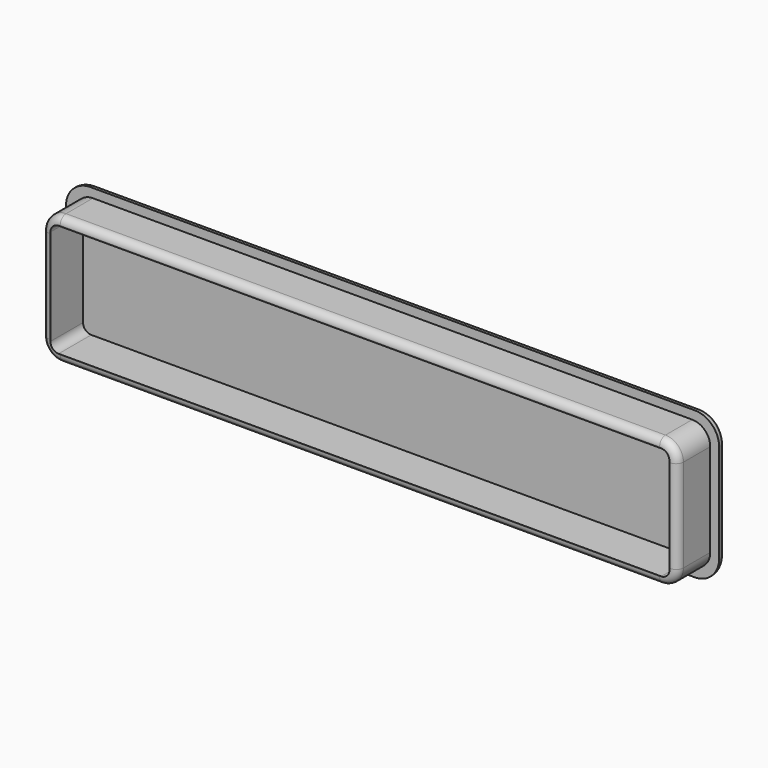
from build123d import *

# Parameters (mm, degrees)
SKETCH004_W             = 80
SKETCH004_H             = 18
PAD001_DEPTH            = 1
FILLET001_R             = 3
PAD002_DEPTH            = 5
POCKET001_DEPTH         = 5
FILLET009_R             = 0.9
FILLET010_R             = 0.9
BODY001_PLACEMENT_ANGLE = 90


with BuildPart() as part:
    # Sketch004 → Pad001 (new body)
    with BuildSketch(Plane.YZ):
        with Locations((8.97, 0.91)):
            Rectangle(SKETCH004_W, SKETCH004_H)
    extrude(amount=PAD001_DEPTH)

    # Fillet001
    fillet001_edges = [part.edges().sort_by_distance(p)[0] for p in [
        (0.5, -31.03, -8.09),
        (0.5, -31.03, 9.91),
        (0.5, 48.97, 9.91),
        (0.5, 48.97, -8.09),
    ]]
    fillet(fillet001_edges, radius=FILLET001_R)

    # Sketch005 (on Face2 of Fillet001) → Pad002 (join)
    with BuildSketch(Plane(origin=(0, 0, 0), x_dir=(0, 1, 0), z_dir=(-1, 0, 0))):
        with BuildLine():
            Line((-27.73, 6.99), (45.67, 6.99))
            ThreePointArc((47.87, 4.79), (47.225635, 6.345635), (45.67, 6.99))
            Line((47.87, 4.79), (47.87, -6.61))
            ThreePointArc((45.67, -8.81), (47.225635, -8.165635), (47.87, -6.61))
            Line((45.67, -8.81), (-27.73, -8.81))
            ThreePointArc((-29.93, -6.61), (-29.285635, -8.165635), (-27.73, -8.81))
            Line((-29.93, -6.61), (-29.93, 4.79))
            ThreePointArc((-27.73, 6.99), (-29.285635, 6.345635), (-29.93, 4.79))
        make_face()
    extrude(amount=PAD002_DEPTH)

    # Sketch006 (on Face19 of Pad002) → Pocket001 (cut)
    with BuildSketch(Plane(origin=(-5, 0, 0), x_dir=(0, 1, 0), z_dir=(-1, 0, 0))):
        with BuildLine():
            Line((-27.93, 5.99), (45.87, 5.99))
            ThreePointArc((46.87, 4.99), (46.577107, 5.697107), (45.87, 5.99))
            Line((46.87, 4.99), (46.87, -6.81))
            ThreePointArc((45.87, -7.81), (46.577107, -7.517107), (46.87, -6.81))
            Line((45.87, -7.81), (-27.93, -7.81))
            ThreePointArc((-28.93, -6.81), (-28.637107, -7.517107), (-27.93, -7.81))
            Line((-28.93, -6.81), (-28.93, 4.99))
            ThreePointArc((-27.93, 5.99), (-28.637107, 5.697107), (-28.93, 4.99))
        make_face()
    extrude(amount=-POCKET001_DEPTH, mode=Mode.SUBTRACT)

    # Fillet009
    fillet009_edges = [part.edges().sort_by_distance(p)[0] for p in [
        (1, 8.97, -8.09),
    ]]
    fillet(fillet009_edges, radius=FILLET009_R)

    # Fillet010
    fillet010_edges = [part.edges().sort_by_distance(p)[0] for p in [
        (-5, 8.97, -6.99),
    ]]
    fillet(fillet010_edges, radius=FILLET010_R)


with BuildPart() as part_1:
    # Body001 placement: moved
    add(part.part.moved(Location((9, 84.100505, 8.100505))).rotate(Axis((9, 84.100505, 8.100505), (0, 0, 1)), BODY001_PLACEMENT_ANGLE))


solid = part_1.part
